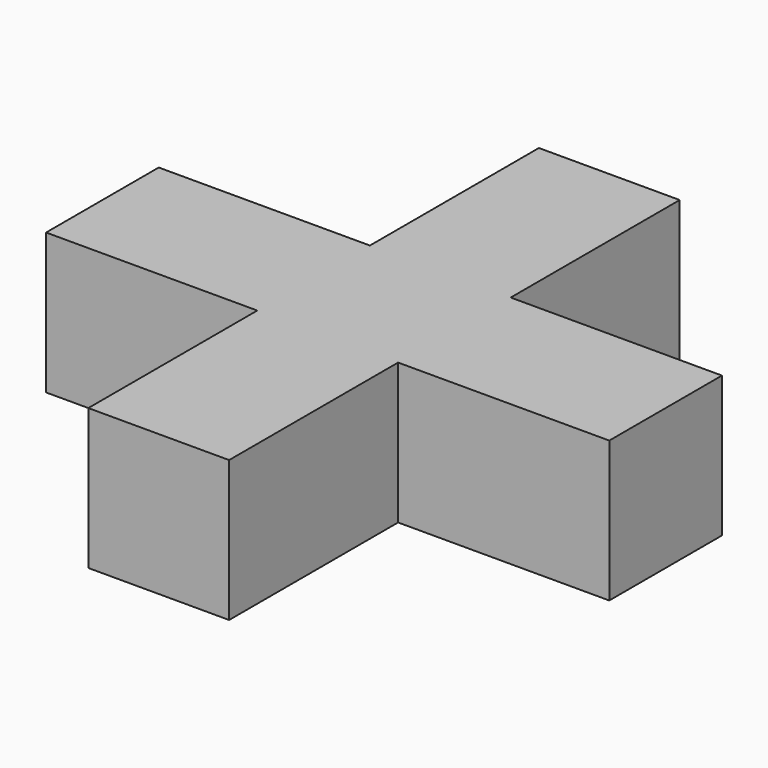
from build123d import *

# Parameters (mm, degrees)
PAD_DEPTH = 10


with BuildPart() as part:
    # Sketch → Pad (new body)
    with BuildSketch(Plane.XY):
        Polygon((-5, 20), (5, 20), (5, 5), (20, 5), (20, -5), (5, -5), (5, -20), (-5, -20), (-5, -5), (-20, -5), (-20, 5), (-5, 5), align=None)
    extrude(amount=PAD_DEPTH)


solid = part.part
